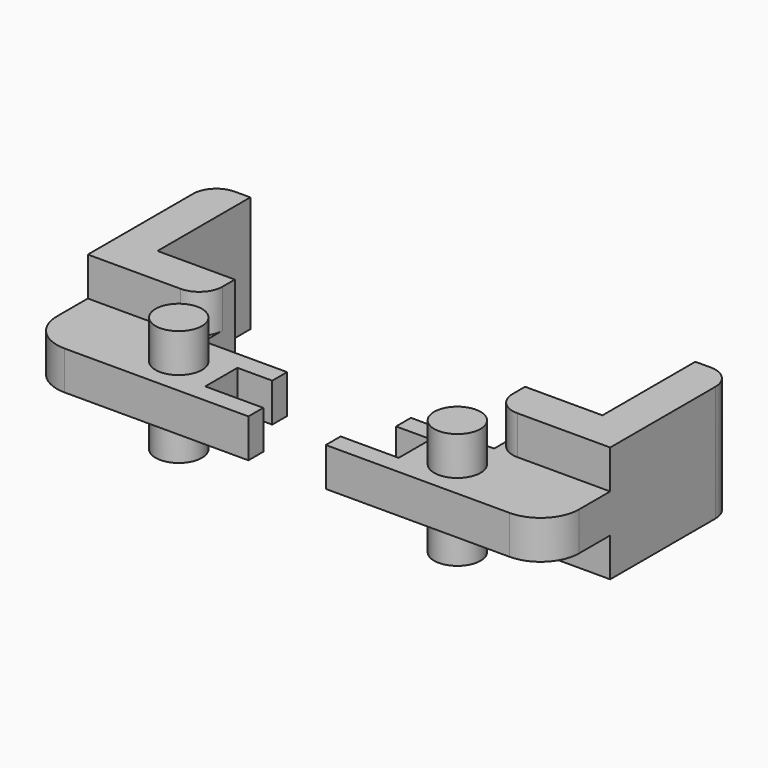
from build123d import *

# Parameters (mm, degrees)
CYLINDER001_R     = 3
CYLINDER001_DEPTH = 15
PAD_DEPTH         = 15
SKETCH002_W       = 28.75
SKETCH002_H       = 5
PAD002_DEPTH      = 10
POCKET_DEPTH      = 10.001
FILLET_R          = 3
FILLET002_R       = 3
PAD001_DEPTH      = 15
SKETCH003_W       = 28.75
SKETCH003_H       = 5
PAD003_DEPTH      = 10
POCKET001_DEPTH   = 10.001
FILLET001_R       = 3
FILLET003_R       = 3
CYLINDER_R        = 3
CYLINDER_DEPTH    = 15
FILLET004_R       = 5


with BuildPart() as cylinder001:
    # Cylinder001 → Cylinder001 (new body)
    with BuildSketch(Plane(origin=(18, 15, 0), x_dir=(1, 0, 0), z_dir=(0, 0, 1))):
        Circle(CYLINDER001_R)
    extrude(amount=CYLINDER001_DEPTH)


with BuildPart() as fillet002:
    # Sketch → Pad (new body)
    with BuildSketch(Plane.XY):
        Polygon((-28.75, 40), (-28.75, 25), (-18.75, 25), (-18.75, 20), (-33.75, 20), (-33.75, 40), align=None)
    extrude(amount=PAD_DEPTH)

    # Sketch002 → Pad002 (new body)
    with BuildSketch(Plane.XZ.offset(-20)):
        with Locations((-19.375, 7.5)):
            Rectangle(SKETCH002_W, SKETCH002_H)
    extrude(amount=PAD002_DEPTH)

    # Sketch004 → Pocket (cut, through all)
    with BuildSketch(Plane.XY.offset(10)):
        Polygon((12.5, 17.6), (12.5, 12.4), (-12.5, 12.4), (-12.5, 17.6), (-8, 17.6), (-8, 21.6), (8, 21.6), (8, 17.6), align=None)
    extrude(amount=-POCKET_DEPTH, mode=Mode.SUBTRACT)

    # Fillet
    fillet_edges = [fillet002.edges().sort_by_distance(p)[0] for p in [
        (-18.75, 20, 12.5),
        (-18.75, 20, 2.5),
    ]]
    fillet(fillet_edges, radius=FILLET_R)

    # Fillet002
    fillet002_edges = [fillet002.edges().sort_by_distance(p)[0] for p in [
        (-33.75, 40, 7.5),
    ]]
    fillet(fillet002_edges, radius=FILLET002_R)


with BuildPart() as fillet003:
    # Sketch001 → Pad001 (new body)
    with BuildSketch(Plane.XY):
        Polygon((18.75, 25), (18.75, 20), (33.75, 20), (33.75, 40), (28.75, 40), (28.75, 25), align=None)
    extrude(amount=PAD001_DEPTH)

    # Sketch003 → Pad003 (new body)
    with BuildSketch(Plane.XZ.offset(-20)):
        with Locations((19.375, 7.5)):
            Rectangle(SKETCH003_W, SKETCH003_H)
    extrude(amount=PAD003_DEPTH)

    # Sketch005 → Pocket001 (cut, through all)
    with BuildSketch(Plane.XY.offset(10)):
        Polygon((12.5, 17.6), (12.5, 12.4), (-12.5, 12.4), (-12.5, 17.6), (-8, 17.6), (-8, 21.6), (8, 21.6), (8, 17.6), align=None)
    extrude(amount=-POCKET001_DEPTH, mode=Mode.SUBTRACT)

    # Fillet001
    fillet001_edges = [fillet003.edges().sort_by_distance(p)[0] for p in [
        (18.75, 20, 2.5),
        (18.75, 20, 12.5),
    ]]
    fillet(fillet001_edges, radius=FILLET001_R)

    # Fillet003
    fillet003_edges = [fillet003.edges().sort_by_distance(p)[0] for p in [
        (33.75, 40, 7.5),
    ]]
    fillet(fillet003_edges, radius=FILLET003_R)


with BuildPart() as claws:
    # Cylinder → Cylinder (new body)
    with BuildSketch(Plane(origin=(-18, 15, 0), x_dir=(1, 0, 0), z_dir=(0, 0, 1))):
        Circle(CYLINDER_R)
    extrude(amount=CYLINDER_DEPTH)

    # Fusion: union Cylinder001, Fillet002, Fillet003
    add(cylinder001.part)
    add(fillet002.part)
    add(fillet003.part)

    # Fillet004
    fillet004_edges = [claws.edges().sort_by_distance(p)[0] for p in [
        (33.75, 10, 7.5),
        (-33.75, 10, 7.5),
    ]]
    fillet(fillet004_edges, radius=FILLET004_R)


solid = claws.part
